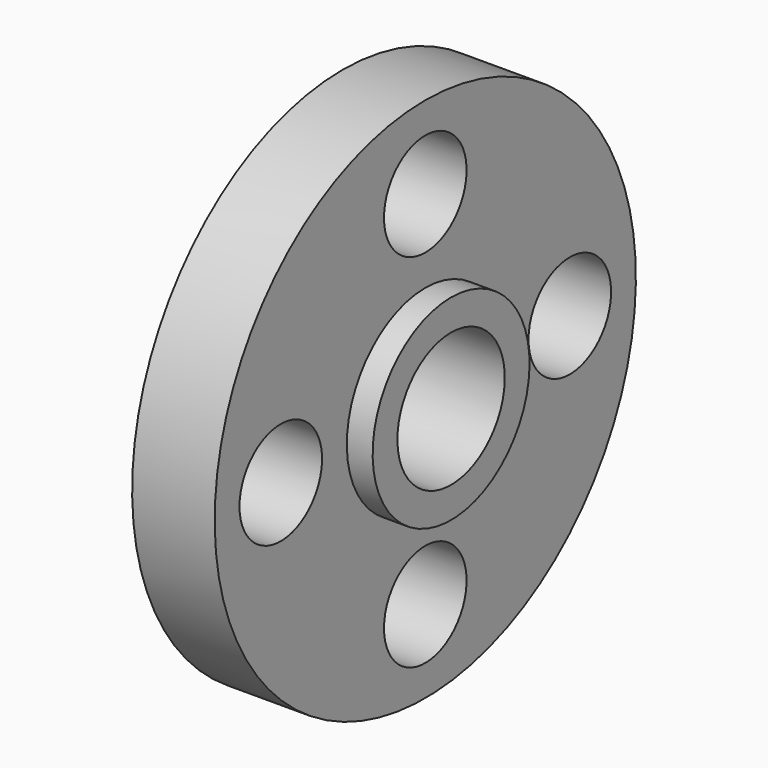
from build123d import *

# Parameters (mm, degrees)
F3_D = 20


with BuildPart() as f1:
    # F0 (on Front) → F1 (revolve)
    with BuildSketch(Plane.XZ):
        Polygon((8, 38), (-8, 38), (-8, 3), (-12, 3), (-12, 0), (13, 0), (13, 6), (8, 6), align=None)
    revolve(axis=Axis((1.21409, 0, -13), (1, 0, 0)))

    # F3 (through all)
    with Locations(Plane.YZ.offset(8)):
        with Locations((0, 22), (-35, -13), (0, -48), (35, -13)):
            Hole(F3_D / 2)


solid = f1.part
